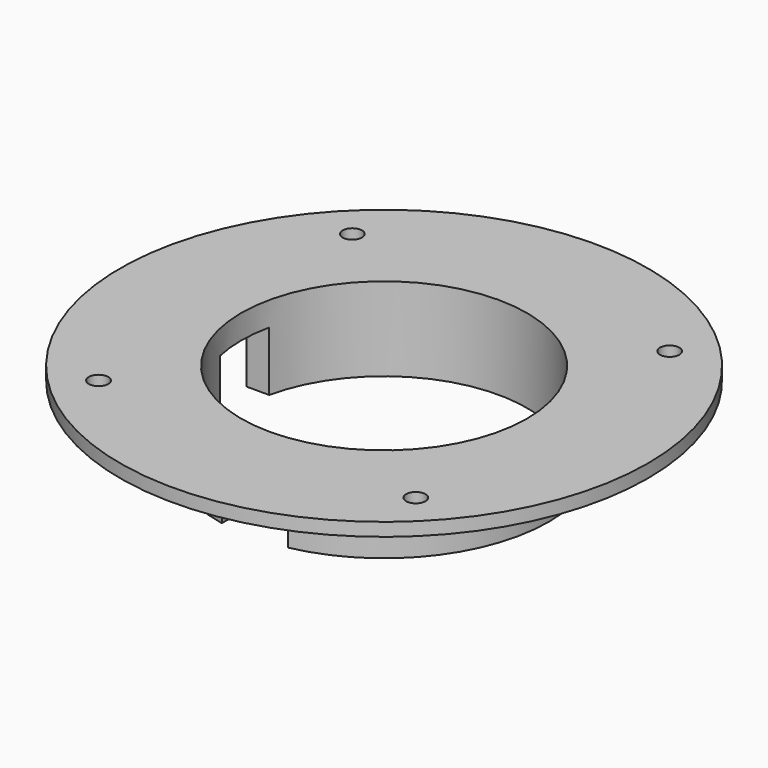
from build123d import *

# Parameters (mm, degrees)
F0_R     = 37.5
F0_R_2   = 32.5
F1_DEPTH = 16
F2_W     = 14
F2_H     = 13.5
F3_DEPTH = 37.501
F4_W     = 15
F4_H     = 14.5
F5_DEPTH = 50
F6_R     = 60
F6_R_2   = 37.5
F6_R_3   = 32.5
F7_DEPTH = 3
F8_D     = 1.9
F8_DEPTH = 50
F8_TIP   = 0.5708175881
F9_D     = 4.4
F9_DEPTH = 50
F9_TIP   = 1.3218933619


with BuildPart() as f1:
    # F0 (on Top) → F1 (new body)
    with BuildSketch(Plane.XY):
        Circle(F0_R)
        Circle(F0_R_2, mode=Mode.SUBTRACT)
    extrude(amount=F1_DEPTH)

    # F2 (on Right) → F3 (cut, through all)
    with BuildSketch(Plane.YZ):
        with Locations((0, 6.75)):
            Rectangle(F2_W, F2_H)
    extrude(amount=-F3_DEPTH, mode=Mode.SUBTRACT)

    # F4 (on Front) → F5 (cut)
    with BuildSketch(Plane.XZ):
        with Locations((0, 7.25)):
            Rectangle(F4_W, F4_H)
    extrude(amount=F5_DEPTH, mode=Mode.SUBTRACT)

    # F6 (on face) → F7 (join)
    with BuildSketch(Plane.XY.offset(16)):
        Circle(F6_R)
        Circle(F6_R_2, mode=Mode.SUBTRACT)
        Circle(F6_R_2)
        Circle(F6_R_3, mode=Mode.SUBTRACT)
    extrude(amount=F7_DEPTH)

    # F8 (one way)
    with BuildSketch(Plane.XY.offset(16)):
        with Locations((32.3357836379, -13.3939201328), (13.3939201328, 32.3357836379), (-13.3939201328, -32.3357836379), (-32.3357836379, 13.3939201328), (-13.3939201328, 32.3357836379), (32.3357836379, 13.3939201328), (13.3939201328, -32.3357836379), (-32.3357836379, -13.3939201328)):
            Circle(F8_D / 2)
    extrude(amount=-F8_DEPTH, mode=Mode.SUBTRACT)
    with Locations(Plane.XY.offset(16)):
        with Locations((32.3357836379, -13.3939201328), (13.3939201328, 32.3357836379), (-13.3939201328, -32.3357836379), (-32.3357836379, 13.3939201328), (-13.3939201328, 32.3357836379), (32.3357836379, 13.3939201328), (13.3939201328, -32.3357836379), (-32.3357836379, -13.3939201328)):
            with Locations((0, 0, -(F8_DEPTH + F8_TIP / 2))):  # 118° drill point
                Cone(0, F8_D / 2, F8_TIP, mode=Mode.SUBTRACT)

    # F9
    with Locations(Plane(origin=(0, 0, 16), x_dir=(1, 0, 0), z_dir=(0, 0, -1))):
        with Locations((-36.0624458405, -36.0624458405), (36.0624458405, -36.0624458405), (36.0624458405, 36.0624458405), (-36.0624458405, 36.0624458405)):
            Hole(F9_D / 2, depth=F9_DEPTH)
            with Locations((0, 0, -(F9_DEPTH + F9_TIP / 2))):  # 118° drill point
                Cone(0, F9_D / 2, F9_TIP, mode=Mode.SUBTRACT)


solid = f1.part
